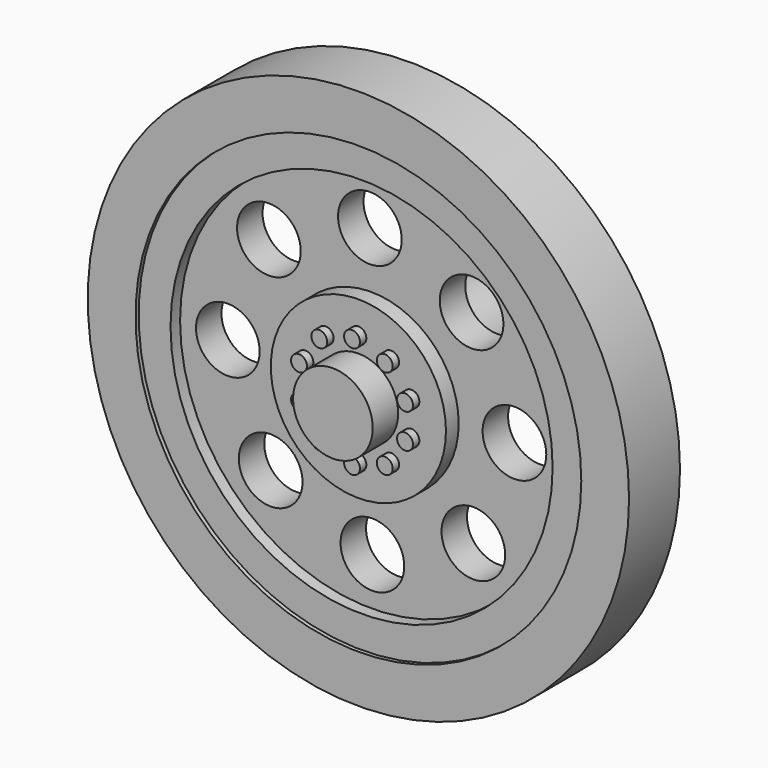
from build123d import *

# Parameters (mm, degrees)
F0_R      = 16.999966
F1_DEPTH  = 3.999992
F2_R      = 14
F2_R_2    = 12
F3_DEPTH  = 0.25
F4_DEPTH  = 1
F5_R      = 5.5
F6_DEPTH  = 1
F7_R      = 2.5
F8_DEPTH  = 2
F9_R      = 0.5
F11_DEPTH = 0.5
F10_R     = 2
F12_DEPTH = 25
F13_R     = 14
F13_R_2   = 12
F14_DEPTH = 0.25
F15_DEPTH = 1
F16_R     = 3
F16_R_2   = 1.5
F17_DEPTH = 11


with BuildPart() as f1:
    # F0 (on Front) → F1 (new body)
    with BuildSketch(Plane.XZ):
        with Locations((-39.9907566607, 30.1120206714)):
            Circle(F0_R)
    extrude(amount=F1_DEPTH)

    # F2 (on face) → F3 (cut)
    with BuildSketch(Plane.XZ.offset(3.999992)):
        with Locations((-39.9907566607, 30.1120206714)):
            Circle(F2_R)
        with Locations((-39.9907566607, 30.1120206714)):
            Circle(F2_R_2, mode=Mode.SUBTRACT)
    extrude(amount=-F3_DEPTH, mode=Mode.SUBTRACT)

    # F4 (cut): a face of the model
    f4_faces = [f1.faces().sort_by_distance(p)[0] for p in [
        (-39.9907566607, -3.999992, 30.1120206714),
    ]]
    extrude(f4_faces, amount=-F4_DEPTH, mode=Mode.SUBTRACT)

    # F5 (on face) → F6 (join)
    with BuildSketch(Plane.XZ.offset(2.999992)):
        with Locations((-39.9907566607, 30.1120206714)):
            Circle(F5_R)
    extrude(amount=F6_DEPTH)

    # F7 (on face) → F8 (join)
    with BuildSketch(Plane.XZ.offset(3.999992)):
        with Locations((-39.9907566607, 30.1120206714)):
            Circle(F7_R)
    extrude(amount=F8_DEPTH)

    # F9 (on face) → F11 (join)
    with BuildSketch(Plane.XZ.offset(3.999992)):
        with Locations((-37.9335082777, 32.9435801517)):
            Circle(F9_R)
        with Locations((-39.9907566607, 33.6120206714)):
            Circle(F9_R)
        with Locations((-42.0480050437, 32.9435801517)):
            Circle(F9_R)
        with Locations((-43.3194544677, 31.1935801517)):
            Circle(F9_R)
        with Locations((-43.3194544677, 29.0304611911)):
            Circle(F9_R)
        with Locations((-42.0480050437, 27.2804611911)):
            Circle(F9_R)
        with Locations((-39.9907566607, 26.6120206714)):
            Circle(F9_R)
        with Locations((-37.9335082777, 27.2804611911)):
            Circle(F9_R)
        with Locations((-36.6620588537, 29.0304611911)):
            Circle(F9_R)
        with Locations((-36.6620588537, 31.1935801517)):
            Circle(F9_R)
    extrude(amount=F11_DEPTH)

    # F10 (on face) → F12 (cut)
    with BuildSketch(Plane.XZ.offset(2.999992)):
        with Locations((-33.5699219599, 23.8027328735)):
            Circle(F10_R)
        with Locations((-39.9118810892, 21.1104647272)):
            Circle(F10_R)
        with Locations((-46.3000444586, 23.6911859705)):
            Circle(F10_R)
        with Locations((-48.9923126049, 30.0331450999)):
            Circle(F10_R)
        with Locations((-46.4115913615, 36.4213084693)):
            Circle(F10_R)
        with Locations((-40.0696322322, 39.1135766156)):
            Circle(F10_R)
        with Locations((-33.6814688628, 36.5328553722)):
            Circle(F10_R)
        with Locations((-30.9892007165, 30.1908962429)):
            Circle(F10_R)
    extrude(amount=-F12_DEPTH, mode=Mode.SUBTRACT)

    # F13 (on face) → F14 (cut)
    with BuildSketch(Plane(origin=(0, 0, 0), x_dir=(-1, 0, 0), z_dir=(0, 1, 0))):
        with Locations((39.9907566607, 30.1120206714)):
            Circle(F13_R)
        with Locations((39.9907566607, 30.1120206714)):
            Circle(F13_R_2, mode=Mode.SUBTRACT)
    extrude(amount=-F14_DEPTH, mode=Mode.SUBTRACT)

    # F15 (cut): a face of the model
    f15_faces = [f1.faces().sort_by_distance(p)[0] for p in [
        (-39.9907566607, 0, 30.1120206714),
    ]]
    extrude(f15_faces, amount=-F15_DEPTH, mode=Mode.SUBTRACT)

    # F16 (on face) → F17 (join)
    with BuildSketch(Plane(origin=(0, -1, 0), x_dir=(-1, 0, 0), z_dir=(0, 1, 0))):
        with Locations((39.9907566607, 30.1120206714)):
            Circle(F16_R)
        with Locations((39.9907566607, 30.1120206714)):
            Circle(F16_R_2, mode=Mode.SUBTRACT)
    extrude(amount=F17_DEPTH)


solid = f1.part
